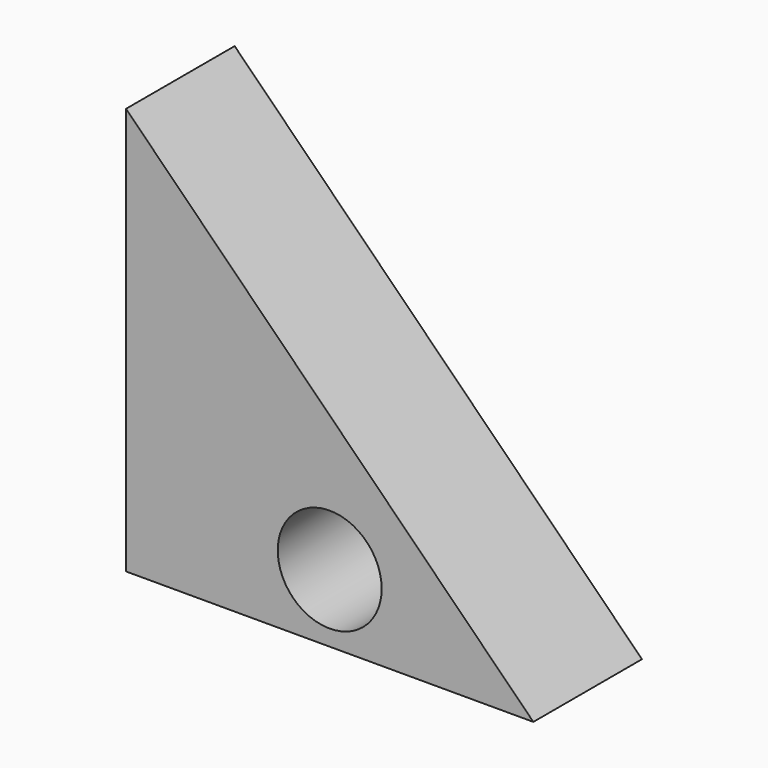
from build123d import *

# Parameters (mm, degrees)
F1_DEPTH = 25.4
F2_R     = 9.721078
F3_DEPTH = 25.401


with BuildPart() as f1:
    # F0 (on Front) → F1 (new body)
    with BuildSketch(Plane.XZ):
        Polygon((0, 0), (76.2, 0), (0, 76.2), align=None)
    extrude(amount=F1_DEPTH)

    # F2 (on face) → F3 (cut, through all)
    with BuildSketch(Plane.XZ.offset(25.4)):
        with Locations((38.1, 12.7)):
            Circle(F2_R)
    extrude(amount=-F3_DEPTH, mode=Mode.SUBTRACT)


solid = f1.part
